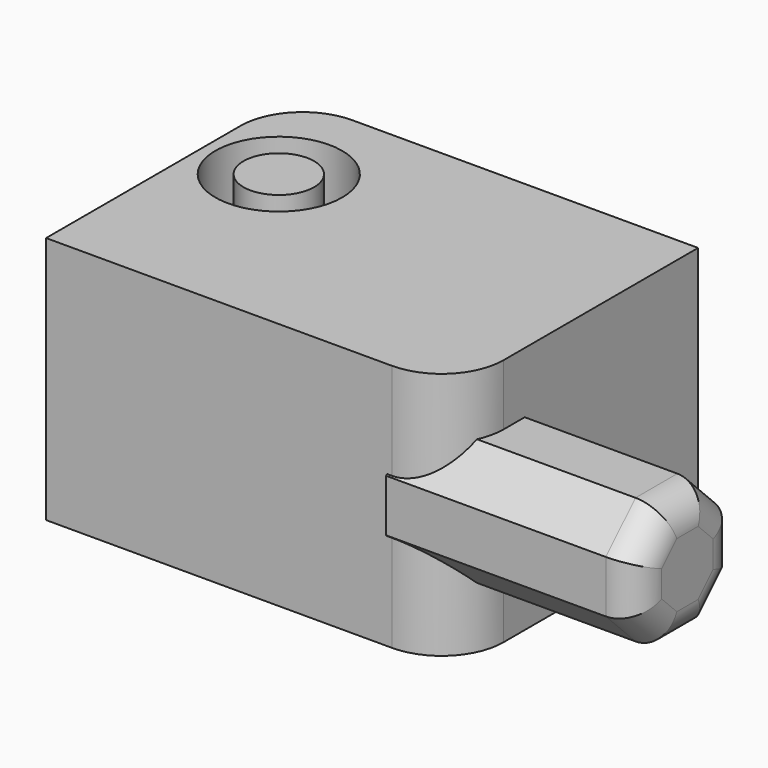
from build123d import *

# Parameters (mm, degrees)
F0_R          = 10.204194
F0_R_2        = 5.689615
F1_DEPTH      = 40
F2_DEPTH      = 25
F4_DEPTH      = 29.6
F4_DEPTH_BACK = 10.8
F5_R          = 5


with BuildPart() as f1:
    # F0 (on Top) → F1 (new body)
    with BuildSketch(Plane.XY):
        with BuildLine():
            Line((30.896839, 35.430623), (-24.826688, 35.430623))
            ThreePointArc((-24.826688, 35.430623), (-31.897756, 32.501691), (-34.826688, 25.430623))
            Line((-34.826688, 25.430623), (-34.826688, -13.707297))
            Line((-34.826688, -13.707297), (20.896839, -13.707297))
            ThreePointArc((20.896839, -13.707297), (27.967907, -10.778365), (30.896839, -3.707297))
            Line((30.896839, -3.707297), (30.896839, 35.430623))
        make_face()
        with Locations((-22.845495, 18.174861)):
            Circle(F0_R, mode=Mode.SUBTRACT)
        with Locations((-22.845495, 18.174861)):
            Circle(F0_R_2)
    extrude(amount=F1_DEPTH)

    # F3 (on face) → F4 (join, two sides)
    with BuildSketch(Plane.YZ.offset(30.896839)) as f4_sk:
        Polygon((-13.89118, 24.218303), (-13.89118, 15.781697), (-7.925599, 9.816117), (-3.707297, 9.816117), (-3.707297, 30.183883), (-7.925599, 30.183883), align=None)
        Polygon((-3.707297, 30.183883), (-3.707297, 9.816117), (0.511006, 9.816117), (6.476586, 15.781697), (6.476586, 24.218303), (0.511006, 30.183883), align=None)
    extrude(amount=F4_DEPTH)
    extrude(f4_sk.sketch, amount=-F4_DEPTH_BACK)

    # F5
    f5_edges = [f1.edges().sort_by_distance(p)[0] for p in [
        (60.496839, -10.90839, 12.798907),
        (60.496839, -3.707297, 9.816117),
        (60.496839, -13.89118, 20),
        (60.496839, -10.90839, 27.201093),
        (60.496839, -3.707297, 30.183883),
        (60.496839, 3.493796, 12.798907),
        (60.496839, 6.476586, 20),
        (60.496839, 3.493796, 27.201093),
    ]]
    fillet(f5_edges, radius=F5_R)


with BuildPart() as f2:
    # F0 (on Top) → F2 (new body)
    with BuildSketch(Plane.XY):
        with Locations((-22.845495, 18.174861)):
            Circle(F0_R)
        with Locations((-22.845495, 18.174861)):
            Circle(F0_R_2, mode=Mode.SUBTRACT)
    extrude(amount=F2_DEPTH)


solid = Compound([f1.part, f2.part])
